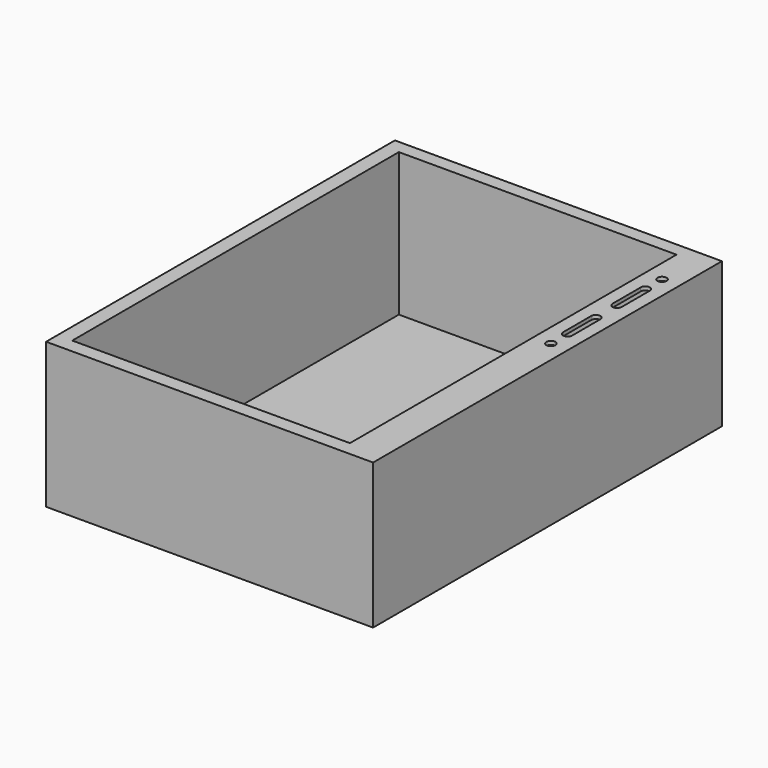
from build123d import *

# Parameters (mm, degrees)
F0_W     = 457.2
F0_H     = 609.6
F1_DEPTH = 203.2
F2_W     = 388.18945
F2_H     = 570.733487
F3_DEPTH = 200.025
F4_W     = 570.733487
F4_H     = 195.013677
F5_DEPTH = 45.45839
F6_R     = 6.35
F7_DEPTH = 25.4


with BuildPart() as f1:
    # F0 (on Top) → F1 (new body)
    with BuildSketch(Plane.XY):
        Rectangle(F0_W, F0_H)
    extrude(amount=F1_DEPTH)

    # F2 (on face) → F3 (cut)
    with BuildSketch(Plane.XY.offset(203.2)):
        with Locations((-13.849162, 0.528514)):
            Rectangle(F2_W, F2_H)
    extrude(amount=-F3_DEPTH, mode=Mode.SUBTRACT)

    # F4 (on face) → F5 (cut)
    with BuildSketch(Plane(origin=(180.245563, 0, 0), x_dir=(0, -1, 0), z_dir=(-1, 0, 0))):
        with Locations((-0.528514, 100.681838)):
            Rectangle(F4_W, F4_H)
    extrude(amount=-F5_DEPTH, mode=Mode.SUBTRACT)

    # F6 (on face) → F7 (cut)
    with BuildSketch(Plane.XY.offset(203.2)):
        with Locations((204.422782, 230.383605)):
            Circle(F6_R)
        with BuildLine():
            Line((210.772782, 151.883379), (210.772782, 201.187))
            ThreePointArc((210.772782, 201.187), (204.238898, 207.534337), (198.083431, 200.819387))
            Line((198.083431, 200.819387), (198.072782, 151.884761))
            ThreePointArc((198.072782, 151.884761), (204.422091, 145.533379), (210.772782, 151.883379))
        make_face()
        with BuildLine():
            Line((198.072782, 114.663158), (198.083431, 65.728531))
            ThreePointArc((198.083431, 65.728531), (204.238898, 59.013582), (210.772782, 65.360919))
            Line((210.772782, 65.360919), (210.772782, 114.66454))
            ThreePointArc((210.772782, 114.66454), (204.422091, 121.01454), (198.072782, 114.663158))
        make_face()
        with Locations((204.422782, 36.164314)):
            Circle(F6_R)
    extrude(amount=-F7_DEPTH, mode=Mode.SUBTRACT)


solid = f1.part
